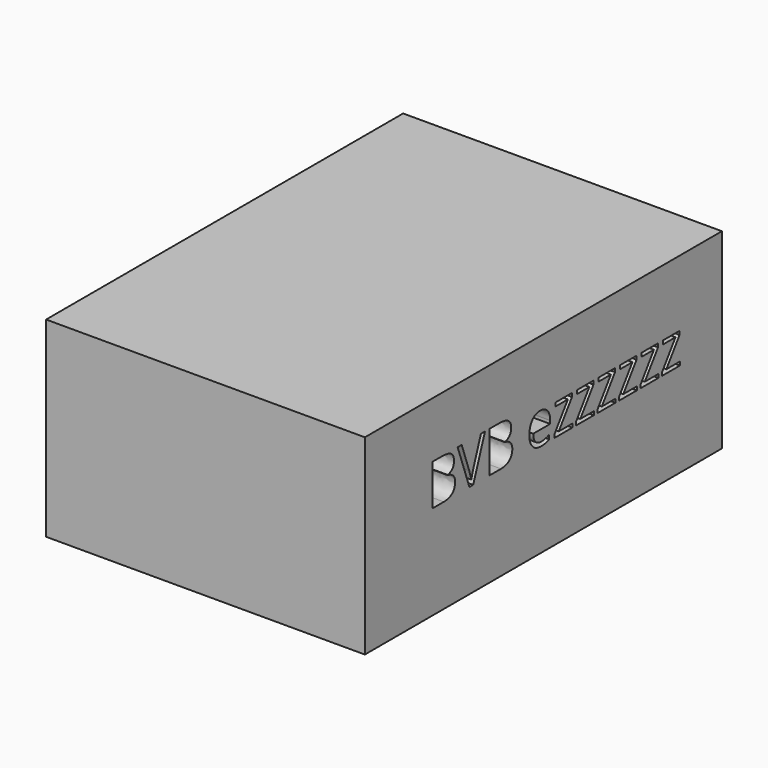
from build123d import *

# Parameters (mm, degrees)
F0_W     = 177.8
F0_H     = 76.2
F1_DEPTH = 63.5


with BuildPart() as f1:
    # F0 (on Right) → F1 (new body, symmetric)
    with BuildSketch(Plane.YZ):
        with Locations((-6.8537443876, -7.9069595627)):
            Rectangle(F0_W, F0_H)
        with BuildLine():
            Line((-62.1489095043, -8.4243910387), (-62.1489095043, 7.9288767233))
            Line((-62.1489095043, 7.9288767233), (-57.528189723, 7.9288767233))
            add(Edge.make_bspline(
                [(-57.528189723, 7.9288767233), (-54.2747162286, 7.9288767233), (-52.819780062, 6.9553401001)],
                knots=[0, 0, 0, 1, 1, 1], degree=2))
            add(Edge.make_bspline(
                [(-52.819780062, 6.9553401001), (-51.3648438954, 5.981803477), (-51.3648438954, 3.8808255439)],
                knots=[0, 0, 0, 1, 1, 1], degree=2))
            add(Edge.make_bspline(
                [(-51.3648438954, 3.8808255439), (-51.3648438954, 2.4240997879), (-52.1755278849, 1.4791965948)],
                knots=[0, 0, 0, 1, 1, 1], degree=2))
            add(Edge.make_bspline(
                [(-52.1755278849, 1.4791965948), (-52.9862118744, 0.5342934017), (-54.5431546357, 0.2551174583)],
                knots=[0, 0, 0, 1, 1, 1], degree=2))
            Line((-54.5431546357, 0.2551174583), (-54.5431546357, 0.1441629167))
            add(Edge.make_bspline(
                [(-54.5431546357, 0.1441629167), (-50.8172295449, -0.4929309029), (-50.8172295449, -3.7714586486)],
                knots=[0, 0, 0, 1, 1, 1], degree=2))
            add(Edge.make_bspline(
                [(-50.8172295449, -3.7714586486), (-50.8172295449, -5.9619160507), (-52.2990095522, -7.1931535447)],
                knots=[0, 0, 0, 1, 1, 1], degree=2))
            add(Edge.make_bspline(
                [(-52.2990095522, -7.1931535447), (-53.7807895595, -8.4243910387), (-56.4436985582, -8.4243910387)],
                knots=[0, 0, 0, 1, 1, 1], degree=2))
            Line((-56.4436985582, -8.4243910387), (-62.1489095043, -8.4243910387))
        make_face(mode=Mode.SUBTRACT)
        with BuildLine():
            Line((-41.7010612389, -2.5867504784), (-37.9643986117, 7.9288767233))
            Line((-37.9643986117, 7.9288767233), (-35.9206875388, 7.9288767233))
            Line((-35.9206875388, 7.9288767233), (-41.8120157805, -8.4243910387))
            Line((-41.8120157805, -8.4243910387), (-43.6910846304, -8.4243910387))
            Line((-43.6910846304, -8.4243910387), (-49.553779442, 7.9288767233))
            Line((-49.553779442, 7.9288767233), (-47.5387017992, 7.9288767233))
            Line((-47.5387017992, 7.9288767233), (-43.7805640994, -2.6511756962))
            add(Edge.make_bspline(
                [(-43.7805640994, -2.6511756962), (-43.1327327436, -4.4765568646), (-42.7533397948, -6.198141849)],
                knots=[0, 0, 0, 1, 1, 1], degree=2))
            add(Edge.make_bspline(
                [(-42.7533397948, -6.198141849), (-42.3488925948, -4.3870773956), (-41.7010612389, -2.5867504784)],
                knots=[0, 0, 0, 1, 1, 1], degree=2))
        make_face(mode=Mode.SUBTRACT)
        with BuildLine():
            Line((-33.6729632765, -8.4243910387), (-33.6729632765, 7.9288767233))
            Line((-33.6729632765, 7.9288767233), (-29.0522434952, 7.9288767233))
            add(Edge.make_bspline(
                [(-29.0522434952, 7.9288767233), (-25.7987700008, 7.9288767233), (-24.3438338342, 6.9553401001)],
                knots=[0, 0, 0, 1, 1, 1], degree=2))
            add(Edge.make_bspline(
                [(-24.3438338342, 6.9553401001), (-22.8888976676, 5.981803477), (-22.8888976676, 3.8808255439)],
                knots=[0, 0, 0, 1, 1, 1], degree=2))
            add(Edge.make_bspline(
                [(-22.8888976676, 3.8808255439), (-22.8888976676, 2.4240997879), (-23.6995816571, 1.4791965948)],
                knots=[0, 0, 0, 1, 1, 1], degree=2))
            add(Edge.make_bspline(
                [(-23.6995816571, 1.4791965948), (-24.5102656466, 0.5342934017), (-26.067208408, 0.2551174583)],
                knots=[0, 0, 0, 1, 1, 1], degree=2))
            Line((-26.067208408, 0.2551174583), (-26.067208408, 0.1441629167))
            add(Edge.make_bspline(
                [(-26.067208408, 0.1441629167), (-22.3412833171, -0.4929309029), (-22.3412833171, -3.7714586486)],
                knots=[0, 0, 0, 1, 1, 1], degree=2))
            add(Edge.make_bspline(
                [(-22.3412833171, -3.7714586486), (-22.3412833171, -5.9619160507), (-23.8230633244, -7.1931535447)],
                knots=[0, 0, 0, 1, 1, 1], degree=2))
            add(Edge.make_bspline(
                [(-23.8230633244, -7.1931535447), (-25.3048433317, -8.4243910387), (-27.9677523304, -8.4243910387)],
                knots=[0, 0, 0, 1, 1, 1], degree=2))
            Line((-27.9677523304, -8.4243910387), (-33.6729632765, -8.4243910387))
        make_face(mode=Mode.SUBTRACT)
        with BuildLine():
            add(Edge.make_bspline(
                [(-5.8591651196, -8.4637620051), (-6.7360639162, -8.6498793007), (-7.9780389465, -8.6498793007)],
                knots=[0, 0, 0, 1, 1, 1], degree=2))
            add(Edge.make_bspline(
                [(-7.9780389465, -8.6498793007), (-10.6946356266, -8.6498793007), (-12.2676846924, -6.9927195341)],
                knots=[0, 0, 0, 1, 1, 1], degree=2))
            add(Edge.make_bspline(
                [(-12.2676846924, -6.9927195341), (-13.8407337581, -5.3355597674), (-13.8407337581, -2.3970540041)],
                knots=[0, 0, 0, 1, 1, 1], degree=2))
            add(Edge.make_bspline(
                [(-13.8407337581, -2.3970540041), (-13.8407337581, 0.5700851893), (-12.3804288234, 2.3149348356)],
                knots=[0, 0, 0, 1, 1, 1], degree=2))
            add(Edge.make_bspline(
                [(-12.3804288234, 2.3149348356), (-10.9201238886, 4.059784482), (-8.4576489006, 4.059784482)],
                knots=[0, 0, 0, 1, 1, 1], degree=2))
            add(Edge.make_bspline(
                [(-8.4576489006, 4.059784482), (-6.1562369569, 4.059784482), (-4.8140449212, 2.5440022764)],
                knots=[0, 0, 0, 1, 1, 1], degree=2))
            add(Edge.make_bspline(
                [(-4.8140449212, 2.5440022764), (-3.4718528856, 1.0282200708), (-3.4718528856, -1.4557299898)],
                knots=[0, 0, 0, 1, 1, 1], degree=2))
            Line((-3.4718528856, -1.4557299898), (-3.4718528856, -2.6297006236))
            Line((-3.4718528856, -2.6297006236), (-11.9151355844, -2.6297006236))
            add(Edge.make_bspline(
                [(-11.9151355844, -2.6297006236), (-11.8578687242, -4.7879454169), (-10.8234860621, -5.9064387799)],
                knots=[0, 0, 0, 1, 1, 1], degree=2))
            add(Edge.make_bspline(
                [(-10.8234860621, -5.9064387799), (-9.7891033999, -7.0249321429), (-7.9100345501, -7.0249321429)],
                knots=[0, 0, 0, 1, 1, 1], degree=2))
            add(Edge.make_bspline(
                [(-7.9100345501, -7.0249321429), (-5.9307486949, -7.0249321429), (-3.9979921636, -6.198141849)],
                knots=[0, 0, 0, 1, 1, 1], degree=2))
            Line((-3.9979921636, -6.198141849), (-3.9979921636, -7.8553016156))
            add(Edge.make_bspline(
                [(-3.9979921636, -7.8553016156), (-4.982266323, -8.2776447095), (-5.8591651196, -8.4637620051)],
                knots=[0, 0, 0, 1, 1, 1], degree=2))
        make_face(mode=Mode.SUBTRACT)
        Polygon((7.5377009853, -6.9819819978), (7.5377009853, -8.4243910387), (-1.3565582375, -8.4243910387), (-1.3565582375, -7.1609409358), (5.3329268681, 2.391887179), (-0.9413735011, 2.391887179), (-0.9413735011, 3.83429622), (7.3694795835, 3.83429622), (7.3694795835, 2.391887179), (0.769473947, -6.9819819978), align=None, mode=Mode.SUBTRACT)
        Polygon((18.2537621977, -6.9819819978), (18.2537621977, -8.4243910387), (9.3595029749, -8.4243910387), (9.3595029749, -7.1609409358), (16.0489880805, 2.391887179), (9.7746877113, 2.391887179), (9.7746877113, 3.83429622), (18.0855407959, 3.83429622), (18.0855407959, 2.391887179), (11.4855351594, -6.9819819978), align=None, mode=Mode.SUBTRACT)
        Polygon((28.9698234101, -6.9819819978), (28.9698234101, -8.4243910387), (20.0755641874, -8.4243910387), (20.0755641874, -7.1609409358), (26.7650492929, 2.391887179), (20.4907489237, 2.391887179), (20.4907489237, 3.83429622), (28.8016020083, 3.83429622), (28.8016020083, 2.391887179), (22.2015963718, -6.9819819978), align=None, mode=Mode.SUBTRACT)
        Polygon((39.6858846225, -6.9819819978), (39.6858846225, -8.4243910387), (30.7916253998, -8.4243910387), (30.7916253998, -7.1609409358), (37.4811105053, 2.391887179), (31.2068101361, 2.391887179), (31.2068101361, 3.83429622), (39.5176632207, 3.83429622), (39.5176632207, 2.391887179), (32.9176575842, -6.9819819978), align=None, mode=Mode.SUBTRACT)
        Polygon((50.4019458349, -6.9819819978), (50.4019458349, -8.4243910387), (41.5076866122, -8.4243910387), (41.5076866122, -7.1609409358), (48.1971717177, 2.391887179), (41.9228713485, 2.391887179), (41.9228713485, 3.83429622), (50.2337244331, 3.83429622), (50.2337244331, 2.391887179), (43.6337187966, -6.9819819978), align=None, mode=Mode.SUBTRACT)
        Polygon((61.1180070473, -6.9819819978), (61.1180070473, -8.4243910387), (52.2237478246, -8.4243910387), (52.2237478246, -7.1609409358), (58.9132329301, 2.391887179), (52.6389325609, 2.391887179), (52.6389325609, 3.83429622), (60.9497856455, 3.83429622), (60.9497856455, 2.391887179), (54.349780009, -6.9819819978), align=None, mode=Mode.SUBTRACT)
    extrude(amount=F1_DEPTH, both=True)


solid = f1.part
